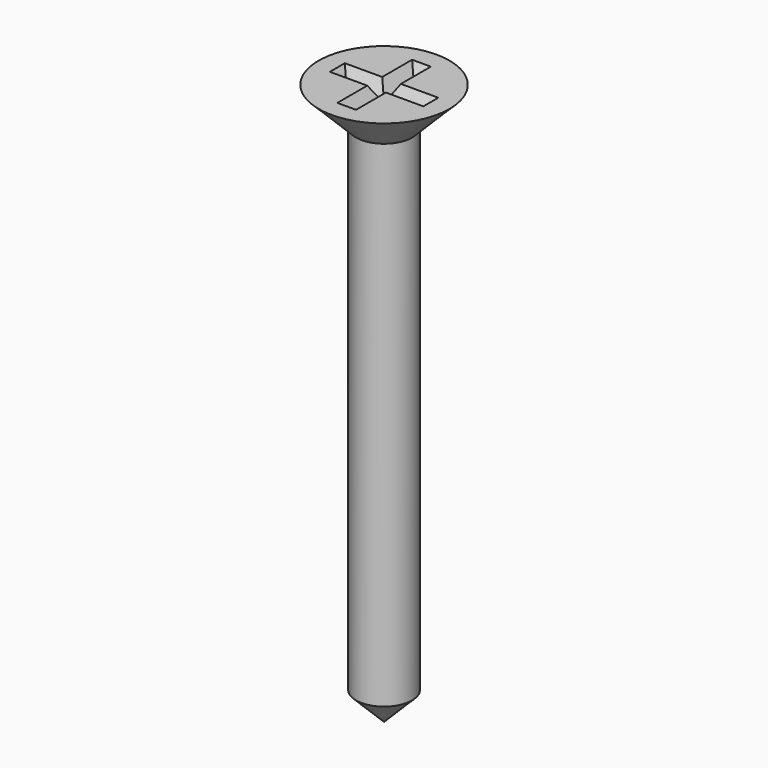
from build123d import *

# Parameters (mm, degrees)
F3_DEPTH = 0.8
F3_TAPER = 30


with BuildPart() as f1:
    # F0 (on Front) → F1 (revolve)
    with BuildSketch(Plane.XZ):
        Polygon((0, 30), (0, 0), (1.5, 1.5), (1.5, 28), (3.5, 30), align=None)
    revolve(axis=Axis((0, 0, 15), (0, 0, 1)))

    # F2 (on face) → F3 (cut)
    with BuildSketch(Plane.XY.offset(30)):
        Polygon((0.5, 2.5), (-0.5, 2.5), (-0.5, 0.5), (-2.5, 0.5), (-2.5, -0.5), (-0.5, -0.5), (-0.5, -2.5), (0.5, -2.5), (0.5, -0.5), (2.5, -0.5), (2.5, 0.5), (0.5, 0.5), align=None)
    extrude(amount=-F3_DEPTH, taper=F3_TAPER, mode=Mode.SUBTRACT)


solid = f1.part
